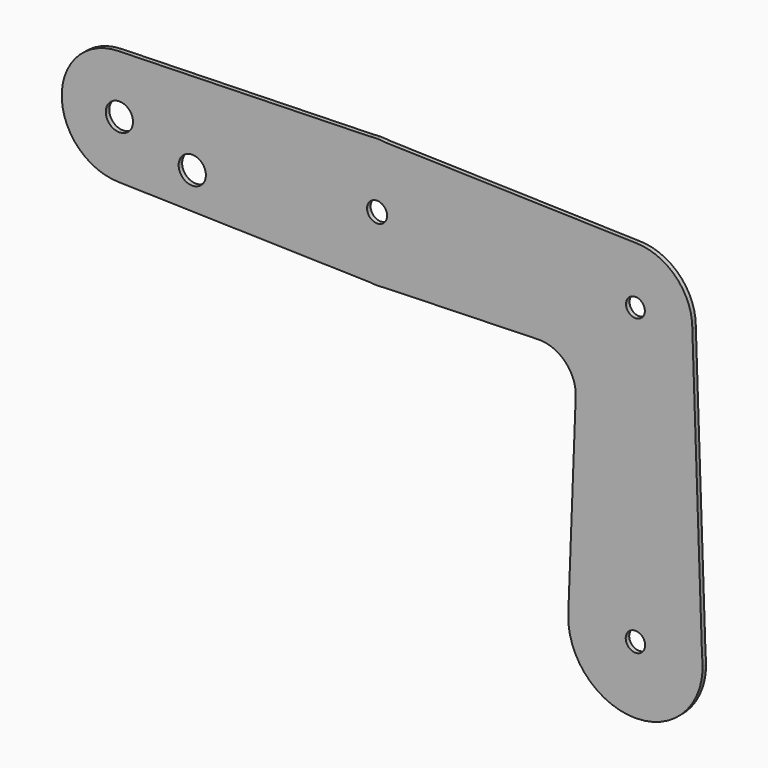
from build123d import *

# Parameters (mm, degrees)
F0_R     = 9.45647
F0_R_2   = 6.524703
F0_R_3   = 6.739392
F1_DEPTH = 3.048


with BuildPart() as f1:
    # F0 (on Front) → F1 (new body)
    with BuildSketch(Plane.XZ):
        with BuildLine():
            ThreePointArc((-179.40379, 62.189409), (-150.798722, 73.736031), (-138.907989, 102.199778))
            ThreePointArc((-138.907989, 102.199778), (-150.817251, 130.681819), (-179.455864, 142.209485))
            ThreePointArc((-179.455864, 142.209485), (-218.934537, 102.173739), (-179.40379, 62.189409))
        make_face()
        with Locations((-178.921267, 102.199778)):
            Circle(F0_R, mode=Mode.SUBTRACT)
        with BuildLine():
            ThreePointArc((-118.877397, 86.082518), (-121.647133, 92.769252), (-128.333867, 95.538988))
            ThreePointArc((-128.333867, 95.538988), (-135.020601, 79.395784), (-118.877397, 86.082518))
        make_face()
        with BuildLine():
            ThreePointArc((-179.455864, 142.209485), (-150.817251, 130.681819), (-138.907989, 102.199778))
            ThreePointArc((-138.907989, 102.199778), (-150.798722, 73.736031), (-179.40379, 62.189409))
            Line((-179.40379, 62.189409), (-5.47156, 57.676359))
            ThreePointArc((-5.47156, 57.676359), (-44.85731, 102.507285), (-4.860639, 146.794027))
            Line((-4.860639, 146.794027), (-128.333867, 143.551852))
            Line((-128.333867, 143.551852), (-179.455864, 142.209485))
        make_face()
        with BuildLine():
            ThreePointArc((-118.877397, 86.082518), (-135.020601, 79.395784), (-128.333867, 95.538988))
            ThreePointArc((-128.333867, 95.538988), (-121.647133, 92.769252), (-118.877397, 86.082518))
        make_face(mode=Mode.SUBTRACT)
        with BuildLine():
            ThreePointArc((6.962021, 102.199778), (4.922892, 107.12267), (0, 109.161799))
            ThreePointArc((0, 109.161799), (-4.922892, 97.276886), (6.962021, 102.199778))
        make_face()
        with BuildLine():
            ThreePointArc((-4.860639, 146.794027), (-44.85731, 102.507285), (-5.47156, 57.676359))
            ThreePointArc((-5.47156, 57.676359), (-0.050681, 57.341443), (5.370942, 57.664109))
            ThreePointArc((5.370942, 57.664109), (33.564896, 72.43956), (44.858364, 102.199778))
            ThreePointArc((44.858364, 102.199778), (33.829583, 131.658769), (6.166263, 146.632311))
            ThreePointArc((6.166263, 146.632311), (3.090475, 146.951558), (0, 147.058142))
            ThreePointArc((0, 147.058142), (-2.433904, 146.992064), (-4.860639, 146.794027))
        make_face()
        with BuildLine():
            ThreePointArc((6.962021, 102.199778), (-4.922892, 97.276886), (0, 109.161799))
            ThreePointArc((0, 109.161799), (4.922892, 107.12267), (6.962021, 102.199778))
        make_face(mode=Mode.SUBTRACT)
        with BuildLine():
            ThreePointArc((44.858364, 102.199778), (33.564896, 72.43956), (5.370942, 57.664109))
            Line((5.370942, 57.664109), (111.800854, 60.728798))
            ThreePointArc((111.800854, 60.728798), (130.578116, 53.213773), (137.91328, 34.365522))
            Line((137.91328, 34.365522), (132.753456, -100.121289))
            ThreePointArc((132.753456, -100.121289), (177.285619, -55.504586), (225.62088, -95.970205))
            Line((225.62088, -95.970205), (218.886154, 101.390041))
            ThreePointArc((218.886154, 101.390041), (151.043311, 74.633496), (179.633495, 141.724221))
            Line((179.633495, 141.724221), (6.166263, 146.632311))
            ThreePointArc((6.166263, 146.632311), (33.829583, 131.658769), (44.858364, 102.199778))
        make_face()
        with BuildLine():
            ThreePointArc((218.894449, 102.199778), (207.411063, 130.054778), (179.633495, 141.724221))
            ThreePointArc((179.633495, 141.724221), (151.043311, 74.633496), (218.886154, 101.390041))
            ThreePointArc((218.886154, 101.390041), (218.892375, 101.794888), (218.894449, 102.199778))
        make_face()
        with Locations((179.369122, 102.199778)):
            Circle(F0_R_2, mode=Mode.SUBTRACT)
        with BuildLine():
            Line((132.737626, -100.533887), (132.753456, -100.121289))
            ThreePointArc((132.753456, -100.121289), (132.745085, -100.32757), (132.737626, -100.533887))
        make_face()
        with BuildLine():
            ThreePointArc((225.62088, -95.970205), (177.285619, -55.504586), (132.753456, -100.121289))
            Line((132.753456, -100.121289), (132.737626, -100.533887))
            ThreePointArc((132.737626, -100.533887), (177.088137, -148.718935), (225.932267, -105.095344))
            Line((225.932267, -105.095344), (225.62088, -95.970205))
        make_face()
        with Locations((179.369122, -102.116384)):
            Circle(F0_R_3, mode=Mode.SUBTRACT)
        with BuildLine():
            ThreePointArc((226.027461, -102.116384), (225.925705, -99.036578), (225.62088, -95.970205))
            Line((225.62088, -95.970205), (225.932267, -105.095344))
            ThreePointArc((225.932267, -105.095344), (226.003657, -103.606624), (226.027461, -102.116384))
        make_face()
    extrude(amount=-F1_DEPTH)


solid = f1.part
